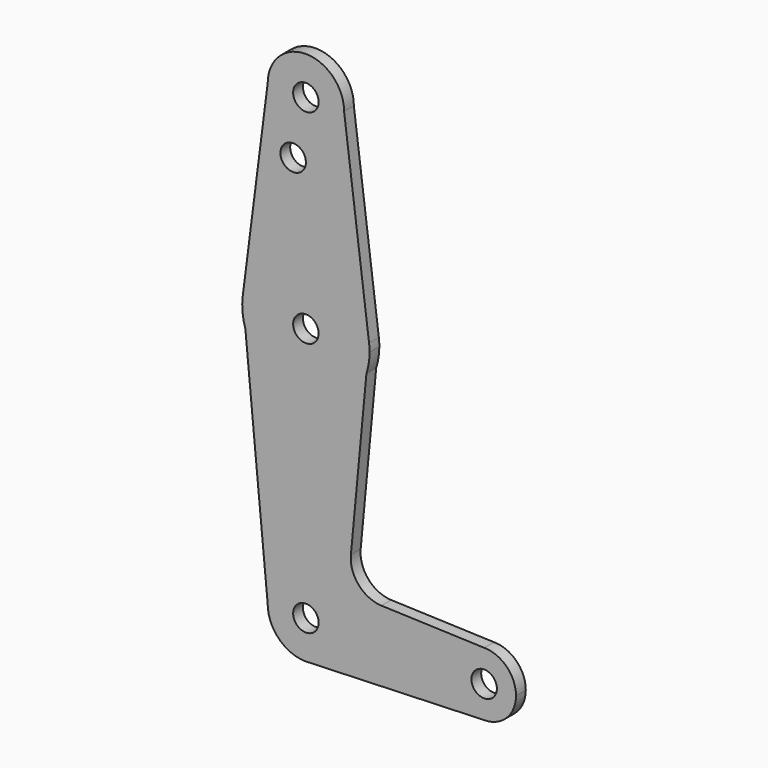
from build123d import *

# Parameters (mm, degrees)
F0_R     = 3.175
F1_DEPTH = 3.048


with BuildPart() as f1:
    # F0 (on Front) → F1 (new body)
    with BuildSketch(Plane.XZ):
        with BuildLine():
            ThreePointArc((-9.525, 114.3), (0, 104.775), (9.525, 114.3))
            ThreePointArc((9.525, 114.3), (0, 123.825), (-9.525, 114.3))
        make_face()
        with Locations((0, 114.3)):
            Circle(F0_R, mode=Mode.SUBTRACT)
        with BuildLine():
            Line((15.7474569047, 65.5082893304), (9.525, 114.3))
            ThreePointArc((9.525, 114.3), (0, 104.775), (-9.525, 114.3))
            Line((-9.525, 114.3), (-15.7474569047, 65.5082893304))
            ThreePointArc((-15.7474569047, 65.5082893304), (0, 79.375), (15.7474569047, 65.5082893304))
        make_face()
        with Locations((-3.175, 100.0252)):
            Circle(F0_R, mode=Mode.SUBTRACT)
        with BuildLine():
            Line((15.0940259351, 58.5820729906), (15.7474569047, 65.5082893304))
            ThreePointArc((15.7474569047, 65.5082893304), (0, 79.375), (-15.7474569047, 65.5082893304))
            Line((-15.7474569047, 65.5082893304), (-15.0877196672, 58.5627598555))
            ThreePointArc((-15.0877196672, 58.5627598555), (0.0101583242, 47.6250032501), (15.0940259351, 58.5820729906))
        make_face()
        with Locations((0, 63.5)):
            Circle(F0_R, mode=Mode.SUBTRACT)
        with BuildLine():
            ThreePointArc((15.875, 63.5), (15.8430821396, 64.5061676396), (15.7474569047, 65.5082893304))
            Line((15.7474569047, 65.5082893304), (15.0940259351, 58.5820729906))
            ThreePointArc((15.0940259351, 58.5820729906), (15.6785408556, 61.0102245804), (15.875, 63.5))
        make_face()
        with BuildLine():
            Line((-15.0877196672, 58.5627598555), (-15.7474569047, 65.5082893304))
            ThreePointArc((-15.7474569047, 65.5082893304), (-15.8038641944, 61.9988332792), (-15.0877196672, 58.5627598555))
        make_face()
        with BuildLine():
            Line((11.2227096642, 17.5470206881), (15.0940259351, 58.5820729906))
            ThreePointArc((15.0940259351, 58.5820729906), (0.0101583242, 47.6250032501), (-15.0877196672, 58.5627598555))
            Line((-15.0877196672, 58.5627598555), (-9.525, 0))
            ThreePointArc((-9.525, 0), (0, 9.525), (9.525, 0))
            ThreePointArc((9.525, 0), (6.9712901065, -6.4905114784), (0.6794904459, -9.5007324841))
            Line((0.6794904459, -9.5007324841), (44.45, -7.9375))
            ThreePointArc((44.45, -7.9375), (36.5125, 0), (44.45, 7.9375))
            Line((44.45, 7.9375), (18.8529170582, 8.8552055668))
            ThreePointArc((18.8529170582, 8.8552055668), (13.1631086409, 11.5553825615), (11.2227096642, 17.5470206881))
        make_face()
        with BuildLine():
            ThreePointArc((9.525, 0), (0, 9.525), (-9.525, 0))
            ThreePointArc((-9.525, 0), (-6.7351920908, -6.7351920908), (0, -9.525))
            Line((0, -9.525), (0.6794904459, -9.5007324841))
            ThreePointArc((0.6794904459, -9.5007324841), (6.9712901065, -6.4905114784), (9.525, 0))
        make_face()
        Circle(F0_R, mode=Mode.SUBTRACT)
        with BuildLine():
            Line((0.6794904459, -9.5007324841), (0, -9.525))
            ThreePointArc((0, -9.525), (0.3399618281, -9.5189311877), (0.6794904459, -9.5007324841))
        make_face()
        with BuildLine():
            ThreePointArc((52.3875, 0), (50.0626600757, 5.6126600757), (44.45, 7.9375))
            ThreePointArc((44.45, 7.9375), (36.5125, 0), (44.45, -7.9375))
            ThreePointArc((44.45, -7.9375), (50.0626600757, -5.6126600757), (52.3875, 0))
        make_face()
        with Locations((44.45, 0)):
            Circle(F0_R, mode=Mode.SUBTRACT)
    extrude(amount=F1_DEPTH)


solid = f1.part
